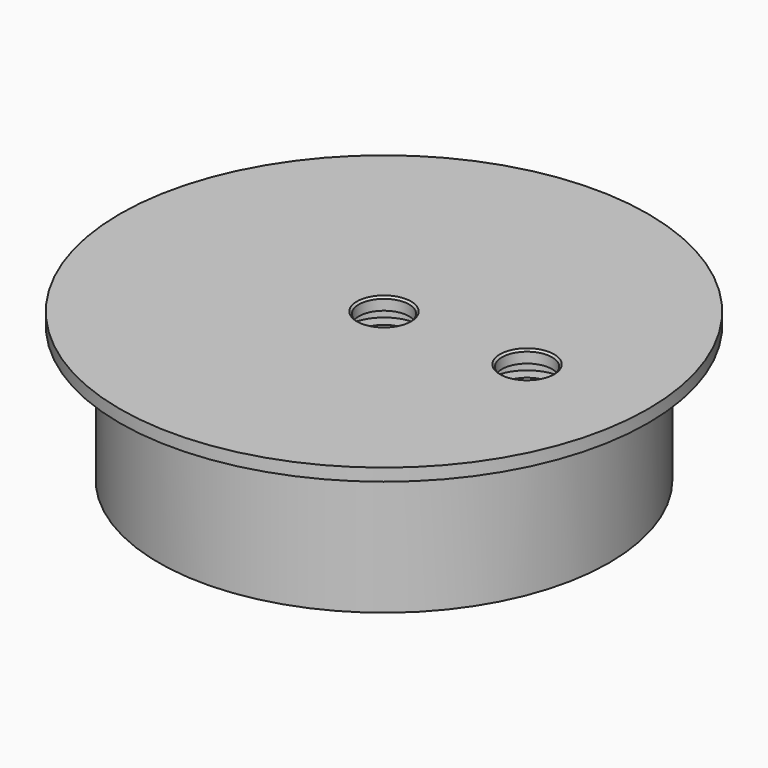
from build123d import *

# Parameters (mm, degrees)
F2_R     = 3.2385
F3_DEPTH = 19.051
F4_W     = 1.6002
F4_H     = 1.6002
F6_W     = 1.6002
F6_H     = 1.6002
F8_SIZE  = 0.254


with BuildPart() as f1:
    # F0 (on Front) → F1 (revolve)
    with BuildSketch(Plane.XZ):
        Polygon((34, 0), (0, 0), (0, -19.05), (19.05, -19.05), (19.05, -17.4752), (22.225, -17.4752), (22.225, -19.05), (29, -19.05), (29, -1.6002), (34, -1.6002), align=None)
    revolve(axis=Axis((0, 0, -7.0298854262), (0, 0, -1)))

    # F2 (on face) → F3 (cut, through all)
    with BuildSketch(Plane(origin=(0, 0, -19.05), x_dir=(1, 0, 0), z_dir=(0, 0, -1))):
        Circle(F2_R)
        with Locations((18.415, 0)):
            Circle(F2_R)
    extrude(amount=-F3_DEPTH, mode=Mode.SUBTRACT)

    # F4 (on Front) → F5 (revolve, cut)
    with BuildSketch(Plane.XZ):
        with Locations((4.0386, -2.4003)):
            Rectangle(F4_W, F4_H)
    revolve(axis=Axis((0, 0, -2.3049995583), (0, 0, -1)), mode=Mode.SUBTRACT)

    # F6 (on Front) → F7 (revolve, cut)
    with BuildSketch(Plane.XZ):
        with Locations((22.4536, -2.4003)):
            Rectangle(F6_W, F6_H)
    revolve(axis=Axis((18.415, 0, -9.4374260038), (0, 0, -1)), mode=Mode.SUBTRACT)

    # F8
    f8_edges = [f1.edges().sort_by_distance(p)[0] for p in [
        (-3.2385, 0, 0),
        (15.1765, 0, 0),
    ]]
    chamfer(f8_edges, length=F8_SIZE)


solid = f1.part
